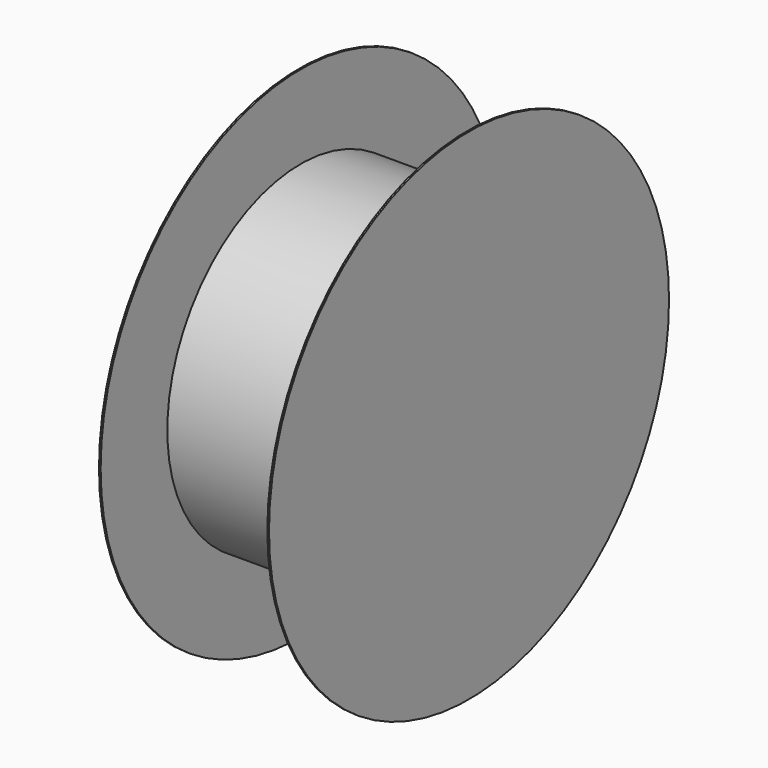
from build123d import *

# Parameters (mm, degrees)
SKETCH012_R   = 100
SKETCH012_R_2 = 10
PAD009_DEPTH  = 100
SKETCH013_R   = 150
SKETCH013_R_2 = 10
PAD011_DEPTH  = 1
SKETCH014_R   = 150
PAD010_DEPTH  = 1


with BuildPart() as part:
    # Sketch012 → Pad009 (new body)
    with BuildSketch(Plane.YZ):
        Circle(SKETCH012_R)
        Circle(SKETCH012_R_2, mode=Mode.SUBTRACT)
    extrude(amount=PAD009_DEPTH)

    # Sketch013 (on Face3 of Pad009) → Pad011 (join)
    with BuildSketch(Plane(origin=(0, 0, 0), x_dir=(0, 1, 0), z_dir=(-1, 0, 0))):
        Circle(SKETCH013_R)
        Circle(SKETCH013_R_2, mode=Mode.SUBTRACT)
    extrude(amount=PAD011_DEPTH)

    # Sketch014 (on Face3 of Pad011) → Pad010 (join)
    with BuildSketch(Plane.YZ.offset(100)):
        Circle(SKETCH014_R)
    extrude(amount=PAD010_DEPTH)


with BuildPart() as part_1:
    # Body004 placement: moved
    add(part.part.moved(Location((112, -225, 160))))


solid = part_1.part
